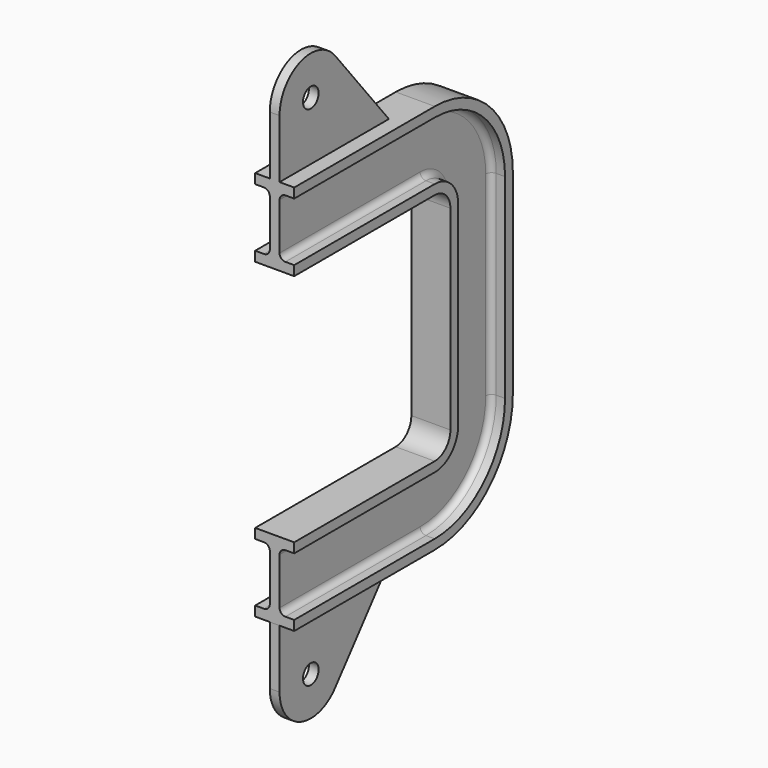
from build123d import *

# Parameters (mm, degrees)
F3_R     = 5
F4_DEPTH = 2.5


with BuildPart() as f2:
    # F2: sweep along a path in F1
    with BuildLine(Plane.YZ) as f2_path:
        Line((0, -20), (90, -20))
        ThreePointArc((90, -20), (97.071068, -22.928932), (100, -30))
        Line((100, -30), (100, -80))
        Line((100, -80), (100, -130))
        ThreePointArc((100, -130), (97.071068, -137.071068), (90, -140))
        Line((90, -140), (0, -140))
    # F0 (on Front) → F2 (sweep)
    with BuildSketch(Plane.XZ):
        with BuildLine():
            Line((10, 20), (0, 20))
            Line((0, 20), (-10, 20))
            Line((-10, 20), (-10, 15))
            Line((-10, 15), (-5.5, 15))
            ThreePointArc((-5.5, 15), (-3.37868, 14.12132), (-2.5, 12))
            Line((-2.5, 12), (-2.5, 0))
            Line((-2.5, 0), (-2.5, -12))
            ThreePointArc((-2.5, -12), (-3.37868, -14.12132), (-5.5, -15))
            Line((-5.5, -15), (-10, -15))
            Line((-10, -15), (-10, -20))
            Line((-10, -20), (0, -20))
            Line((0, -20), (10, -20))
            Line((10, -20), (10, -15))
            Line((10, -15), (5.5, -15))
            ThreePointArc((5.5, -15), (3.37868, -14.12132), (2.5, -12))
            Line((2.5, -12), (2.5, 0))
            Line((2.5, 0), (2.5, 12))
            ThreePointArc((2.5, 12), (3.37868, 14.12132), (5.5, 15))
            Line((5.5, 15), (10, 15))
            Line((10, 15), (10, 20))
        make_face()
    sweep(path=f2_path.line)

    # F3 (on Right) → F4 (join, symmetric)
    with BuildSketch(Plane.YZ):
        with BuildLine():
            Line((0, 50), (0, 20))
            Line((0, 20), (70, 20))
            Line((70, 20), (35.548045, 62.580075))
            ThreePointArc((35.548045, 62.580075), (13.327703, 68.854189), (0, 50))
        make_face()
        with Locations((20, 50)):
            Circle(F3_R, mode=Mode.SUBTRACT)
        with BuildLine():
            Line((70, -180), (0, -180))
            Line((0, -180), (0, -210))
            ThreePointArc((0, -210), (13.327703, -228.854189), (35.548045, -222.580075))
            Line((35.548045, -222.580075), (70, -180))
        make_face()
        with Locations((20, -210)):
            Circle(F3_R, mode=Mode.SUBTRACT)
    extrude(amount=F4_DEPTH, both=True)


solid = f2.part
